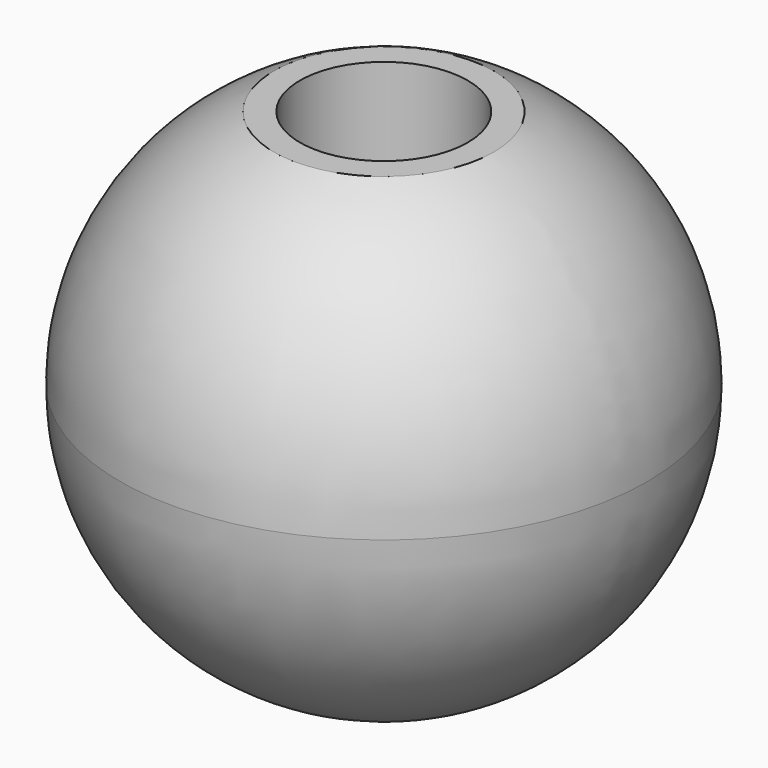
from build123d import *


with BuildPart() as f1:
    # F0 (on Front) → F1 (revolve)
    with BuildSketch(Plane.XZ):
        with BuildLine():
            ThreePointArc((4.582576, -10), (9.257654, -5.94103), (11, 0))
            ThreePointArc((11, 0), (9.257654, 5.94103), (4.582576, 10))
            Line((4.582576, 10), (3.5, 10))
            Line((3.5, 10), (3.5, -10))
            Line((3.5, -10), (4.582576, -10))
        make_face()
    revolve(axis=Axis((0, 0, 0), (0, 0, 1)))


solid = f1.part
